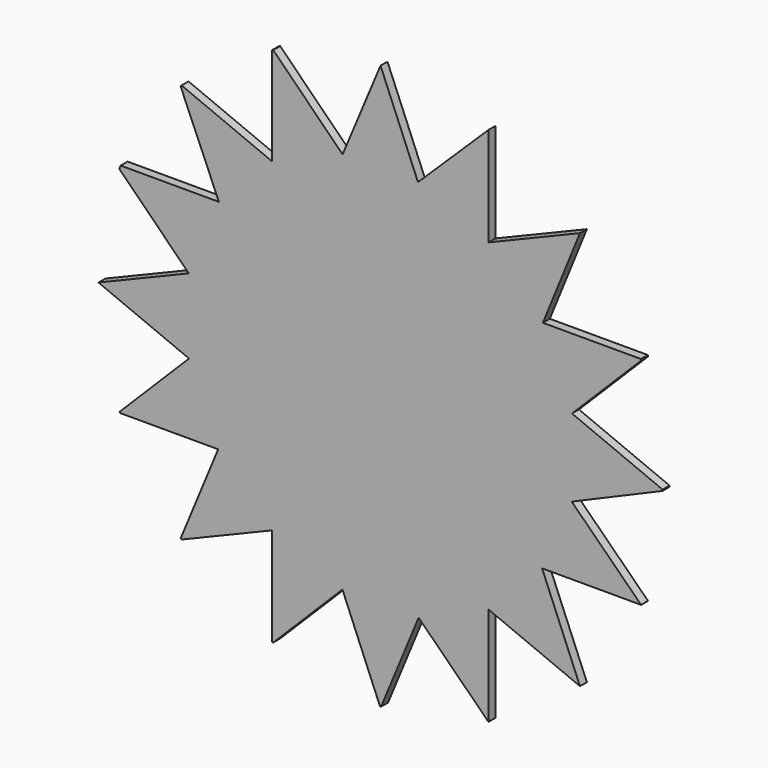
from build123d import *

# Parameters (mm, degrees)
F1_DEPTH = 1


with BuildPart() as f1:
    # F0 (on Front) → F1 (new body)
    with BuildSketch(Plane.XZ):
        with BuildLine():
            Line((18.708066, 12.50033), (22.98097, 22.98097))
            Line((22.98097, 22.98097), (12.437212, 18.613602))
            Line((12.437212, 18.613602), (12.437212, 30.026085))
            Line((12.437212, 30.026085), (4.315137, 22.082337))
            Line((4.315137, 22.082337), (0, 32.5))
            Line((0, 32.5), (-4.371889, 22.071171))
            Line((-4.371889, 22.071171), (-12.359057, 30.058339))
            ThreePointArc((-12.359057, 30.058339), (-12.437212, 30.026085), (-12.515282, 29.993628))
            Line((-12.515282, 29.993628), (-12.515282, 18.730443))
            Line((-12.515282, 18.730443), (-22.921108, 23.040677))
            ThreePointArc((-22.921108, 23.040677), (-22.979929, 22.982012), (-23.0386, 22.923195))
            Line((-23.0386, 22.923195), (-18.623445, 12.626056))
            Line((-18.623445, 12.626056), (-29.947166, 12.626056))
            ThreePointArc((-29.947166, 12.626056), (-30.026085, 12.437212), (-30.103813, 12.247874))
            Line((-30.103813, 12.247874), (-22.096734, 4.240795))
            Line((-22.096734, 4.240795), (-32.499928, -0.068349))
            Line((-32.499928, -0.068349), (-22.067669, -4.389532))
            Line((-22.067669, -4.389532), (-30.052174, -12.374038))
            ThreePointArc((-30.052174, -12.374038), (-30.026085, -12.437212), (-29.999862, -12.50033))
            Line((-29.999862, -12.50033), (-18.708066, -12.50033))
            Line((-18.708066, -12.50033), (-23.02925, -22.93259))
            ThreePointArc((-23.02925, -22.93259), (-22.98097, -22.98097), (-22.93259, -23.02925))
            Line((-22.93259, -23.02925), (-12.50033, -18.708066))
            Line((-12.50033, -18.708066), (-12.50033, -29.999862))
            ThreePointArc((-12.50033, -29.999862), (-12.437212, -30.026085), (-12.374038, -30.052174))
            Line((-12.374038, -30.052174), (-4.389532, -22.067669))
            Line((-4.389532, -22.067669), (-0.068349, -32.499928))
            ThreePointArc((-0.068349, -32.499928), (0, -32.5), (0.068349, -32.499928))
            Line((0.068349, -32.499928), (4.389532, -22.067669))
            Line((4.389532, -22.067669), (12.437212, -30.026085))
            Line((12.437212, -30.026085), (12.437212, -18.613602))
            Line((12.437212, -18.613602), (22.98097, -22.98097))
            Line((22.98097, -22.98097), (18.613602, -12.437212))
            Line((18.613602, -12.437212), (30.026085, -12.437212))
            Line((30.026085, -12.437212), (22.033376, -4.558546))
            Line((22.033376, -4.558546), (32.499923, -0.070754))
            ThreePointArc((32.499923, -0.070754), (32.499981, -0.035377), (32.5, 0))
            ThreePointArc((32.5, 0), (32.499982, 0.034174), (32.499928, 0.068349))
            Line((32.499928, 0.068349), (22.067669, 4.389532))
            Line((22.067669, 4.389532), (30.052174, 12.374038))
            ThreePointArc((30.052174, 12.374038), (30.026085, 12.437212), (29.999862, 12.50033))
            Line((29.999862, 12.50033), (18.708066, 12.50033))
        make_face()
    extrude(amount=F1_DEPTH)


solid = f1.part
